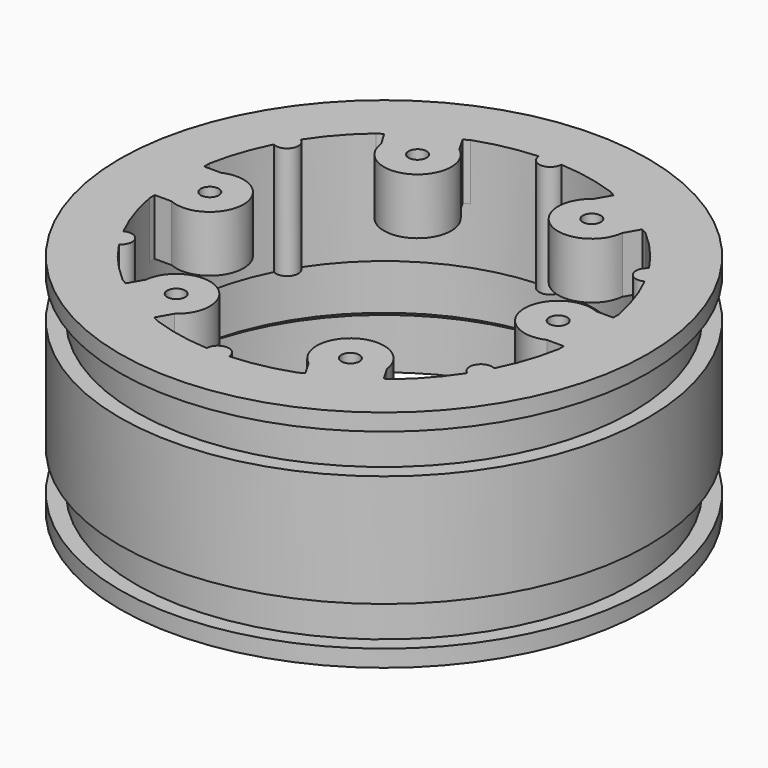
from build123d import *

# Parameters (mm, degrees)
CYLINDER101_R               = 0.8
CYLINDER101_DEPTH           = 5
BOX013_W                    = 2
BOX013_H                    = 5.5
BOX013_DEPTH                = 5
BOX012_W                    = 0.75
BOX012_H                    = 8
BOX012_DEPTH                = 5
CYLINDER100_R               = 3
CYLINDER100_DEPTH           = 5
CUT064_PLACEMENT_ANGLE      = 120
CYLINDER104_R               = 0.8
CYLINDER104_DEPTH           = 5
CUT067_PLACEMENT_ANGLE      = 60
CYLINDER102_R               = 0.8
CYLINDER102_DEPTH           = 5
CUT065_PLACEMENT_ANGLE      = 180
CYLINDER106_R               = 0.8
CYLINDER106_DEPTH           = 5
CYLINDER103_R               = 0.8
CYLINDER103_DEPTH           = 5
CUT066_PLACEMENT_ANGLE      = 240
CYLINDER098_R               = 0.8
CYLINDER098_DEPTH           = 5
CUT063_PLACEMENT_ANGLE      = 60
CYLINDER007_R               = 19.25
CYLINDER007_DEPTH           = 5
CYLINDER018_R               = 22.5
CYLINDER018_DEPTH           = 0.5
CYLINDER070_R               = 20
CYLINDER070_DEPTH           = 5
CYLINDER006_R               = 18.5
CYLINDER006_DEPTH           = 20
CYLINDER002_R               = 22.1
CYLINDER002_DEPTH           = 17
CYLINDER001_R               = 23.5
CYLINDER001_DEPTH           = 17
CYLINDER_R                  = 23.5
CYLINDER_DEPTH              = 20
CYLINDER003_R               = 22
CYLINDER003_DEPTH           = 17
CYLINDER004_R               = 23.5
CYLINDER004_DEPTH           = 10
CUT060_PLACEMENT_ANGLE      = 180
FUSION050_PLACEMENT_ANGLE   = 180
CYLINDER073_R               = 1
CYLINDER073_DEPTH           = 10
CYLINDER073_PLACEMENT_ANGLE = 120
CYLINDER075_R               = 1
CYLINDER075_DEPTH           = 10
CYLINDER075_PLACEMENT_ANGLE = 240
CYLINDER072_R               = 1
CYLINDER072_DEPTH           = 10
CYLINDER072_PLACEMENT_ANGLE = 60
CYLINDER074_R               = 1
CYLINDER074_DEPTH           = 10
CYLINDER076_R               = 1
CYLINDER076_DEPTH           = 10
CYLINDER076_PLACEMENT_ANGLE = 60
CYLINDER071_R               = 1
CYLINDER071_DEPTH           = 10
FUSION030_PLACEMENT_ANGLE   = 30


with BuildPart() as cylinder101:
    # Cylinder101 → Cylinder101 (new body)
    with BuildSketch(Plane(origin=(15.5, 0, 15), x_dir=(1, 0, 0), z_dir=(0, 0, 1))):
        Circle(CYLINDER101_R)
    extrude(amount=CYLINDER101_DEPTH)


with BuildPart() as cube013:
    # Box013 → Box013 (new body)
    with BuildSketch(Plane(origin=(16.5, -2.75, 15), x_dir=(1, 0, 0), z_dir=(0, 0, 1))):
        with Locations((1, 2.75)):
            Rectangle(BOX013_W, BOX013_H)
    extrude(amount=BOX013_DEPTH)


with BuildPart() as cube012:
    # Box012 → Box012 (new body)
    with BuildSketch(Plane(origin=(18.2, -4, 15), x_dir=(1, 0, 0), z_dir=(0, 0, 1))):
        with Locations((0.375, 4)):
            Rectangle(BOX012_W, BOX012_H)
    extrude(amount=BOX012_DEPTH)


with BuildPart() as cylinder100:
    # Cylinder100 → Cylinder100 (new body)
    with BuildSketch(Plane(origin=(15.5, 0, 15), x_dir=(1, 0, 0), z_dir=(0, 0, 1))):
        Circle(CYLINDER100_R)
    extrude(amount=CYLINDER100_DEPTH)


with BuildPart() as cut064:
    # Fusion043 base: copy of Cylinder100
    add(cylinder100.part)

    # Fusion043: union Cube013, Cube012
    add(cube013.part)
    add(cube012.part)

    # Cut064: cut Cylinder101
    add(cylinder101.part, mode=Mode.SUBTRACT)


with BuildPart() as cut064_1:
    # Cut064 placement: moved
    add(cut064.part.moved(Location((0, 0, 9))).rotate(Axis((0, 0, 9), (0, 0, 1)), CUT064_PLACEMENT_ANGLE))


with BuildPart() as cylinder104:
    # Cylinder104 → Cylinder104 (new body)
    with BuildSketch(Plane(origin=(15.5, 0, 15), x_dir=(1, 0, 0), z_dir=(0, 0, 1))):
        Circle(CYLINDER104_R)
    extrude(amount=CYLINDER104_DEPTH)


with BuildPart() as cut067:
    # Fusion046 base: copy of Cylinder100
    add(cylinder100.part)

    # Fusion046: union Cube013, Cube012
    add(cube013.part)
    add(cube012.part)

    # Cut067: cut Cylinder104
    add(cylinder104.part, mode=Mode.SUBTRACT)


with BuildPart() as cut067_1:
    # Cut067 placement: moved
    add(cut067.part.moved(Location((0, 0, 9))).rotate(Axis((0, 0, 9), (0, 0, -1)), CUT067_PLACEMENT_ANGLE))


with BuildPart() as cylinder102:
    # Cylinder102 → Cylinder102 (new body)
    with BuildSketch(Plane(origin=(15.5, 0, 15), x_dir=(1, 0, 0), z_dir=(0, 0, 1))):
        Circle(CYLINDER102_R)
    extrude(amount=CYLINDER102_DEPTH)


with BuildPart() as cut065:
    # Fusion044 base: copy of Cylinder100
    add(cylinder100.part)

    # Fusion044: union Cube013, Cube012
    add(cube013.part)
    add(cube012.part)

    # Cut065: cut Cylinder102
    add(cylinder102.part, mode=Mode.SUBTRACT)


with BuildPart() as cut065_1:
    # Cut065 placement: moved
    add(cut065.part.moved(Location((0, 0, 9))).rotate(Axis((0, 0, 9), (0, 0, 1)), CUT065_PLACEMENT_ANGLE))


with BuildPart() as cylinder106:
    # Cylinder106 → Cylinder106 (new body)
    with BuildSketch(Plane(origin=(15.5, 0, 15), x_dir=(1, 0, 0), z_dir=(0, 0, 1))):
        Circle(CYLINDER106_R)
    extrude(amount=CYLINDER106_DEPTH)


with BuildPart() as cut069:
    # Fusion048 base: copy of Cylinder100
    add(cylinder100.part)

    # Fusion048: union Cube013, Cube012
    add(cube013.part)
    add(cube012.part)

    # Cut069: cut Cylinder106
    add(cylinder106.part, mode=Mode.SUBTRACT)


with BuildPart() as cut069_1:
    # Cut069 placement: moved
    add(cut069.part.moved(Location((0, 0, 9))))


with BuildPart() as cylinder103:
    # Cylinder103 → Cylinder103 (new body)
    with BuildSketch(Plane(origin=(15.5, 0, 15), x_dir=(1, 0, 0), z_dir=(0, 0, 1))):
        Circle(CYLINDER103_R)
    extrude(amount=CYLINDER103_DEPTH)


with BuildPart() as cut066:
    # Fusion045 base: copy of Cylinder100
    add(cylinder100.part)

    # Fusion045: union Cube013, Cube012
    add(cube013.part)
    add(cube012.part)

    # Cut066: cut Cylinder103
    add(cylinder103.part, mode=Mode.SUBTRACT)


with BuildPart() as cut066_1:
    # Cut066 placement: moved
    add(cut066.part.moved(Location((0, 0, 9))).rotate(Axis((0, 0, 9), (0, 0, 1)), CUT066_PLACEMENT_ANGLE))


with BuildPart() as cylinder098:
    # Cylinder098 → Cylinder098 (new body)
    with BuildSketch(Plane(origin=(15.5, 0, 15), x_dir=(1, 0, 0), z_dir=(0, 0, 1))):
        Circle(CYLINDER098_R)
    extrude(amount=CYLINDER098_DEPTH)


with BuildPart() as fusion049:
    # Fusion042 base: copy of Cylinder100
    add(cylinder100.part)

    # Fusion042: union Cube013, Cube012
    add(cube013.part)
    add(cube012.part)

    # Cut063: cut Cylinder098
    add(cylinder098.part, mode=Mode.SUBTRACT)


with BuildPart() as fusion049_1:
    # Cut063 placement: moved
    add(fusion049.part.moved(Location((0, 0, 9))).rotate(Axis((0, 0, 9), (0, 0, 1)), CUT063_PLACEMENT_ANGLE))

    # Fusion049: union Cut064, Cut067, Cut065, Cut069, Cut066
    add(cut064_1.part)
    add(cut067_1.part)
    add(cut065_1.part)
    add(cut069_1.part)
    add(cut066_1.part)


with BuildPart() as cylinder007:
    # Cylinder007 → Cylinder007 (new body)
    with BuildSketch(Plane.XY.offset(5)):
        Circle(CYLINDER007_R)
    extrude(amount=CYLINDER007_DEPTH)


with BuildPart() as cone:
    # Cone → Cone (revolve)
    with BuildSketch(Plane(origin=(0, 0, 5), x_dir=(1, 0, 0), z_dir=(0, -1, 0))):
        Polygon((0, 0), (20, 0), (12, 6), (0, 6), align=None)
    revolve(axis=Axis((0, 0, 5), (0, 0, 1)))


with BuildPart() as cylinder018:
    # Cylinder018 → Cylinder018 (new body)
    with BuildSketch(Plane.XY):
        Circle(CYLINDER018_R)
    extrude(amount=CYLINDER018_DEPTH)


with BuildPart() as cylinder070:
    # Cylinder070 → Cylinder070 (new body)
    with BuildSketch(Plane.XY):
        Circle(CYLINDER070_R)
    extrude(amount=CYLINDER070_DEPTH)


with BuildPart() as cylinder006:
    # Cylinder006 → Cylinder006 (new body)
    with BuildSketch(Plane.XY):
        Circle(CYLINDER006_R)
    extrude(amount=CYLINDER006_DEPTH)


with BuildPart() as cylinder002:
    # Cylinder002 → Cylinder002 (new body)
    with BuildSketch(Plane.XY):
        Circle(CYLINDER002_R)
    extrude(amount=CYLINDER002_DEPTH)


with BuildPart() as cut:
    # Cylinder001 → Cylinder001 (new body)
    with BuildSketch(Plane.XY):
        Circle(CYLINDER001_R)
    extrude(amount=CYLINDER001_DEPTH)

    # Cut: cut Cylinder002
    add(cylinder002.part, mode=Mode.SUBTRACT)


with BuildPart() as cut_1:
    # Cut placement: moved
    add(cut.part.moved(Location((0, 0, 1.5))))


with BuildPart() as cut001:
    # Cylinder → Cylinder (new body)
    with BuildSketch(Plane.XY):
        Circle(CYLINDER_R)
    extrude(amount=CYLINDER_DEPTH)

    # Cut001: cut Cut
    add(cut_1.part, mode=Mode.SUBTRACT)


with BuildPart() as cylinder003:
    # Cylinder003 → Cylinder003 (new body)
    with BuildSketch(Plane.XY):
        Circle(CYLINDER003_R)
    extrude(amount=CYLINDER003_DEPTH)


with BuildPart() as rim_inner_rear:
    # Cylinder004 → Cylinder004 (new body)
    with BuildSketch(Plane.XY.offset(0.5)):
        Circle(CYLINDER004_R)
    extrude(amount=CYLINDER004_DEPTH)

    # Cut002: cut Cylinder003
    add(cylinder003.part, mode=Mode.SUBTRACT)


with BuildPart() as rim_inner_rear_1:
    # Cut002 placement: moved
    add(rim_inner_rear.part.moved(Location((0, 0, 4.5))))

    # Fusion: union Cut001
    add(cut001.part)

    # Cut031: cut Cylinder006
    add(cylinder006.part, mode=Mode.SUBTRACT)

    # Cut057: cut Cylinder070
    add(cylinder070.part, mode=Mode.SUBTRACT)

    # Cut058: cut Cylinder018
    add(cylinder018.part, mode=Mode.SUBTRACT)

    # Cut059: cut Cone
    add(cone.part, mode=Mode.SUBTRACT)

    # Cut060: cut Cylinder007
    add(cylinder007.part, mode=Mode.SUBTRACT)


with BuildPart() as rim_inner_rear_2:
    # Cut060 placement: moved
    add(rim_inner_rear_1.part.moved(Location((0, 0, 44))).rotate(Axis((0, 0, 44), (0, 1, 0)), CUT060_PLACEMENT_ANGLE))

    # Fusion050: union Fusion049
    add(fusion049_1.part)


with BuildPart() as rim_inner_rear_3:
    # Fusion050 placement: moved
    add(rim_inner_rear_2.part.rotate(Axis((0, 0, 0), (0, 1, 0)), FUSION050_PLACEMENT_ANGLE))


with BuildPart() as cylinder073:
    # Cylinder073 → Cylinder073 (new body)
    with BuildSketch(Plane.XY):
        Circle(CYLINDER073_R)
    extrude(amount=CYLINDER073_DEPTH)


with BuildPart() as cylinder073_1:
    # Cylinder073 placement: moved
    add(cylinder073.part.moved(Location((-9.25, 16.02147, 5))).rotate(Axis((-9.25, 16.02147, 5), (0, 0, 1)), CYLINDER073_PLACEMENT_ANGLE))


with BuildPart() as cylinder075:
    # Cylinder075 → Cylinder075 (new body)
    with BuildSketch(Plane.XY):
        Circle(CYLINDER075_R)
    extrude(amount=CYLINDER075_DEPTH)


with BuildPart() as cylinder075_1:
    # Cylinder075 placement: moved
    add(cylinder075.part.moved(Location((-9.25, -16.02147, 5))).rotate(Axis((-9.25, -16.02147, 5), (0, 0, 1)), CYLINDER075_PLACEMENT_ANGLE))


with BuildPart() as cylinder072:
    # Cylinder072 → Cylinder072 (new body)
    with BuildSketch(Plane.XY):
        Circle(CYLINDER072_R)
    extrude(amount=CYLINDER072_DEPTH)


with BuildPart() as cylinder072_1:
    # Cylinder072 placement: moved
    add(cylinder072.part.moved(Location((9.25, 16.02147, 5))).rotate(Axis((9.25, 16.02147, 5), (0, 0, 1)), CYLINDER072_PLACEMENT_ANGLE))


with BuildPart() as cylinder074:
    # Cylinder074 → Cylinder074 (new body)
    with BuildSketch(Plane(origin=(-18.5, 0, 5), x_dir=(-1, 0, 0), z_dir=(0, 0, 1))):
        Circle(CYLINDER074_R)
    extrude(amount=CYLINDER074_DEPTH)


with BuildPart() as cylinder076:
    # Cylinder076 → Cylinder076 (new body)
    with BuildSketch(Plane.XY):
        Circle(CYLINDER076_R)
    extrude(amount=CYLINDER076_DEPTH)


with BuildPart() as cylinder076_1:
    # Cylinder076 placement: moved
    add(cylinder076.part.moved(Location((9.25, -16.02147, 5))).rotate(Axis((9.25, -16.02147, 5), (0, 0, -1)), CYLINDER076_PLACEMENT_ANGLE))


with BuildPart() as obj1:
    # Cylinder071 → Cylinder071 (new body)
    with BuildSketch(Plane(origin=(18.5, 0, 5), x_dir=(1, 0, 0), z_dir=(0, 0, 1))):
        Circle(CYLINDER071_R)
    extrude(amount=CYLINDER071_DEPTH)

    # Fusion030: union Cylinder073, Cylinder075, Cylinder072, Cylinder074, Cylinder076
    add(cylinder073_1.part)
    add(cylinder075_1.part)
    add(cylinder072_1.part)
    add(cylinder074.part)
    add(cylinder076_1.part)


with BuildPart() as obj1_1:
    # Fusion030 placement: moved
    add(obj1.part.moved(Location((0, 0, -39))).rotate(Axis((0, 0, -39), (0, 0, 1)), FUSION030_PLACEMENT_ANGLE))

    # Fusion070: union rim-inner-rear_
    add(rim_inner_rear_3.part)


solid = obj1_1.part
